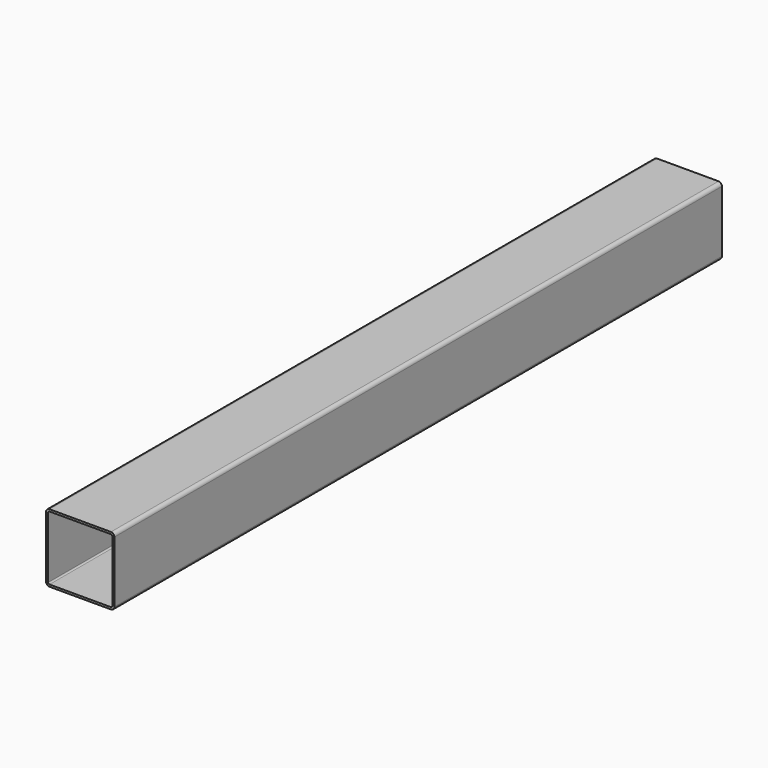
from build123d import *

# Parameters (mm, degrees)
F1_DEPTH = 1112


with BuildPart() as f1:
    # F0 (on Front) → F1 (new body)
    with BuildSketch(Plane.XZ):
        with BuildLine():
            ThreePointArc((50, 45), (48.535534, 48.535534), (45, 50))
            Line((45, 50), (-45, 50))
            ThreePointArc((-45, 50), (-48.535534, 48.535534), (-50, 45))
            Line((-50, 45), (-50, -45))
            ThreePointArc((-50, -45), (-48.535534, -48.535534), (-45, -50))
            Line((-45, -50), (45, -50))
            ThreePointArc((45, -50), (48.535534, -48.535534), (50, -45))
            Line((50, -45), (50, 45))
        make_face()
        with BuildLine():
            ThreePointArc((-47, 45), (-46.414214, 46.414214), (-45, 47))
            Line((-45, 47), (45, 47))
            ThreePointArc((45, 47), (46.414214, 46.414214), (47, 45))
            Line((47, 45), (47, -45))
            ThreePointArc((47, -45), (46.414214, -46.414214), (45, -47))
            Line((45, -47), (-45, -47))
            ThreePointArc((-45, -47), (-46.414214, -46.414214), (-47, -45))
            Line((-47, -45), (-47, 45))
        make_face(mode=Mode.SUBTRACT)
    extrude(amount=-F1_DEPTH)


solid = f1.part
